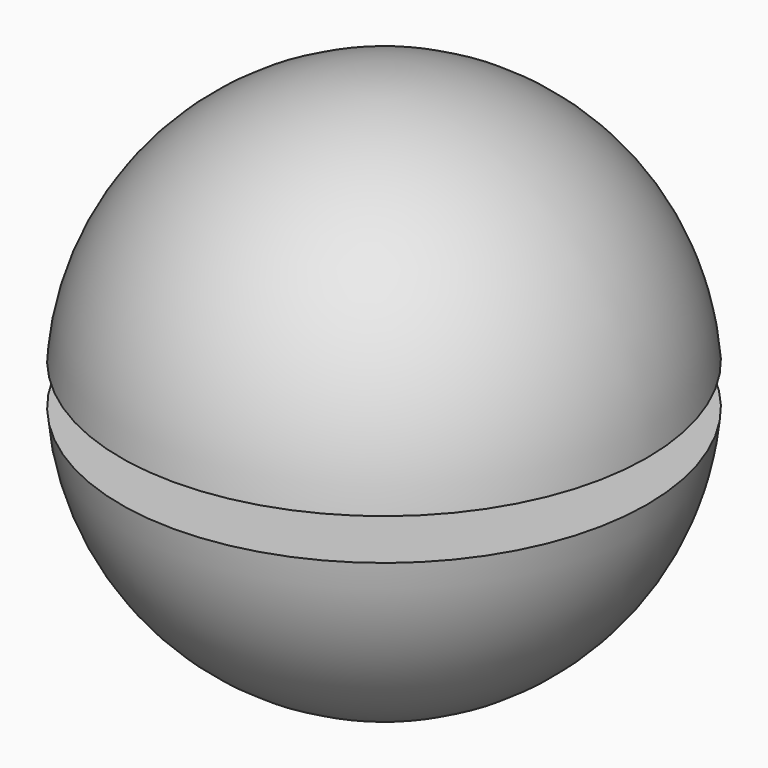
from build123d import *

# Parameters (mm, degrees)
F3_W = 50.92436
F3_H = 9.98901


with BuildPart() as f1:
    # F0 (on Front) → F1 (revolve)
    with BuildSketch(Plane.XZ):
        with BuildLine():
            Line((0, 63.9953), (0, -63.9953))
            ThreePointArc((0, -63.9953), (63.9953, 0), (0, 63.9953))
        make_face()
    revolve(axis=Axis((0, 0, 0), (0, 0, 1)))

    # F3 (on Front) → F4 (revolve, cut)
    with BuildSketch(Plane.XZ):
        with Locations((47.398828, 0)):
            Rectangle(F3_W, F3_H)
    revolve(axis=Axis((0, 0, 0.097934), (0, 0, -1)), mode=Mode.SUBTRACT)


solid = f1.part
